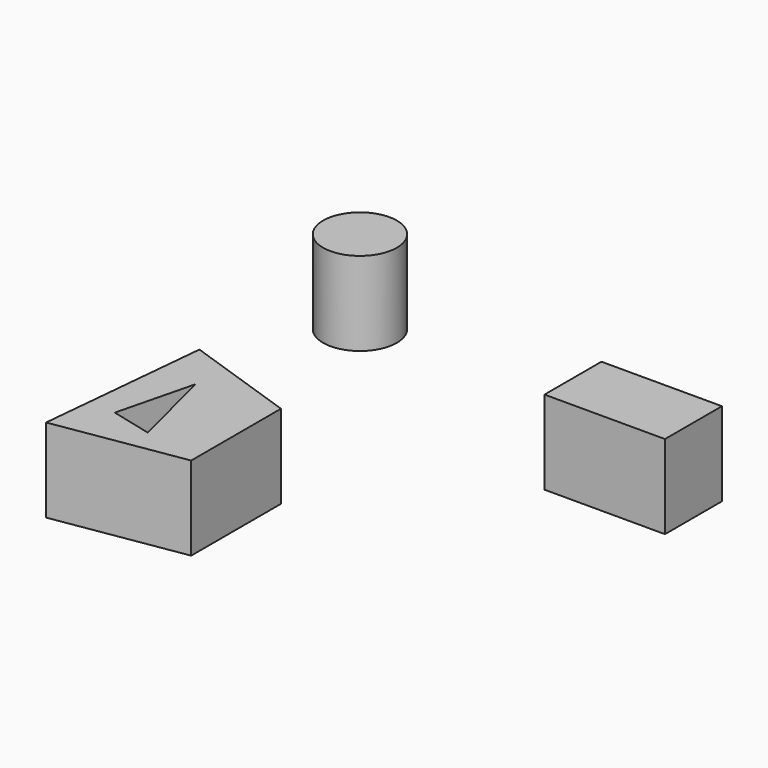
from build123d import *

# Parameters (mm, degrees)
F1_DEPTH = 25.4
F2_DEPTH = 25.4
F0_R     = 11.1797222355
F0_W     = 36.5379918367
F0_H     = 21.5906333178
F3_DEPTH = 25.4
F4_DEPTH = 25.4
F5_DEPTH = 25.4


with BuildPart() as f1:
    # F0 (on Top) → F1 (new body)
    with BuildSketch(Plane.XY):
        Polygon((-20.9524314851, -29.0797241032), (-54.9991987646, -17.4539964646), (-59.9816553295, -69.3545565009), (-20.9524314851, -63.1264895201), align=None)
        Polygon((-50.4319518805, -55.2375987172), (-44.6190871298, -31.9861508906), (-37.9269696142, -58.3638457864), align=None, mode=Mode.SUBTRACT)
    extrude(amount=F1_DEPTH)

    # F0 (on Top) → F2 (join)
    with BuildSketch(Plane.XY):
        Polygon((-37.9269696142, -58.3638457864), (-44.6190871298, -31.9861508906), (-50.4319518805, -55.2375987172), align=None)
    extrude(amount=F2_DEPTH)

    # F2_face (on face) + F0 (on Top) → F4 (cut)
    with BuildSketch(Plane(origin=(-40.5293364972, -45.0439800887, 25.4), x_dir=(1, 0, 0), z_dir=(0, 0, 1))):
        Polygon((19.5769050122, 15.9642559855), (-14.4698622673, 27.5899836241), (-19.4523188323, -24.3105764122), (19.5769050122, -18.0825094314), align=None)
    with BuildSketch(Plane.XY):
        Polygon((-37.9269696142, -58.3638457864), (-44.6190871298, -31.9861508906), (-50.4319518805, -55.2375987172), align=None)
    extrude(amount=-F4_DEPTH, mode=Mode.SUBTRACT)


with BuildPart() as f2:
    # F0 (on Top) → F2, piece 2 (new body)
    with BuildSketch(Plane.XY):
        with Locations((-62.280677259, 52.5233596563)):
            Circle(F0_R)
    extrude(amount=F2_DEPTH)


with BuildPart() as f3:
    # F0 (on Top) → F3 (new body)
    with BuildSketch(Plane.XY):
        with Locations((41.5204456076, 26.3654785231)):
            Rectangle(F0_W, F0_H)
    extrude(amount=F3_DEPTH)


with BuildPart() as f5:
    # F0 (on Top) → F5 (new body)
    with BuildSketch(Plane.XY):
        Polygon((-20.9524314851, -29.0797241032), (-54.9991987646, -17.4539964646), (-59.9816553295, -69.3545565009), (-20.9524314851, -63.1264895201), align=None)
        Polygon((-50.4319518805, -55.2375987172), (-44.6190871298, -31.9861508906), (-37.9269696142, -58.3638457864), align=None, mode=Mode.SUBTRACT)
    extrude(amount=F5_DEPTH)


solid = Compound([f2.part, f3.part, f5.part])
